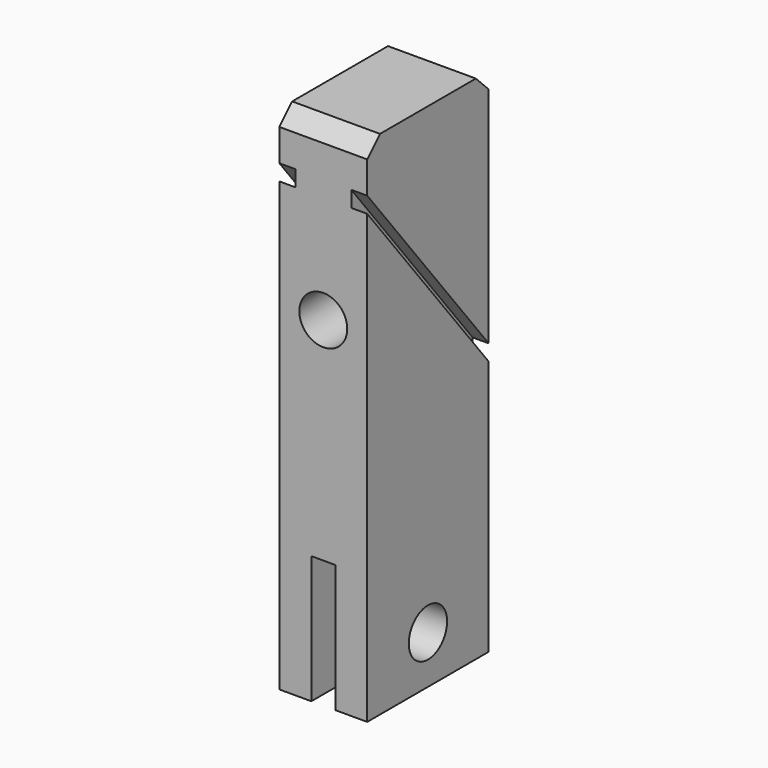
from build123d import *

# Parameters (mm, degrees)
F0_W      = 5.5
F0_H      = 9.5
F1_DEPTH  = 32
F2_SIZE   = 1
F3_R      = 1.5
F4_DEPTH  = 5.5
F5_W      = 1.5
F5_H      = 8
F6_DEPTH  = 9.5
F8_DEPTH  = 1
F10_DEPTH = 1
F11_R     = 1.5
F12_DEPTH = 9.5


with BuildPart() as f1:
    # F0 (on Top) → F1 (new body)
    with BuildSketch(Plane.XY):
        with Locations((2.75, 4.75)):
            Rectangle(F0_W, F0_H)
    extrude(amount=F1_DEPTH)

    # F2
    f2_edges = [f1.edges().sort_by_distance(p)[0] for p in [
        (2.75, 0, 32),
        (2.75, 9.5, 32),
    ]]
    chamfer(f2_edges, length=F2_SIZE)

    # F3 (on face) → F4 (cut, through all)
    with BuildSketch(Plane.YZ.offset(5.5)):
        with Locations((4.75, 3)):
            Circle(F3_R)
    extrude(amount=-F4_DEPTH, mode=Mode.SUBTRACT)

    # F5 (on face) → F6 (cut, through all)
    with BuildSketch(Plane(origin=(0, 9.5, 0), x_dir=(-1, 0, 0), z_dir=(0, 1, 0))):
        with Locations((-2.75, 4)):
            Rectangle(F5_W, F5_H)
    extrude(amount=-F6_DEPTH, mode=Mode.SUBTRACT)

    # F7 (on face) → F8 (cut)
    with BuildSketch(Plane.YZ.offset(5.5)):
        Polygon((9.5, 17), (0, 29), (0, 28), (9.5, 16), align=None)
    extrude(amount=-F8_DEPTH, mode=Mode.SUBTRACT)

    # F9 (on face) → F10 (cut)
    with BuildSketch(Plane(origin=(0, 0, 0), x_dir=(0, -1, 0), z_dir=(-1, 0, 0))):
        Polygon((0, 28), (0, 29), (-9.5, 17), (-9.5, 16), align=None)
    extrude(amount=-F10_DEPTH, mode=Mode.SUBTRACT)

    # F11 (on face) → F12 (cut, through all)
    with BuildSketch(Plane.XZ):
        with Locations((2.75, 21.25)):
            Circle(F11_R)
    extrude(amount=-F12_DEPTH, mode=Mode.SUBTRACT)


solid = f1.part
